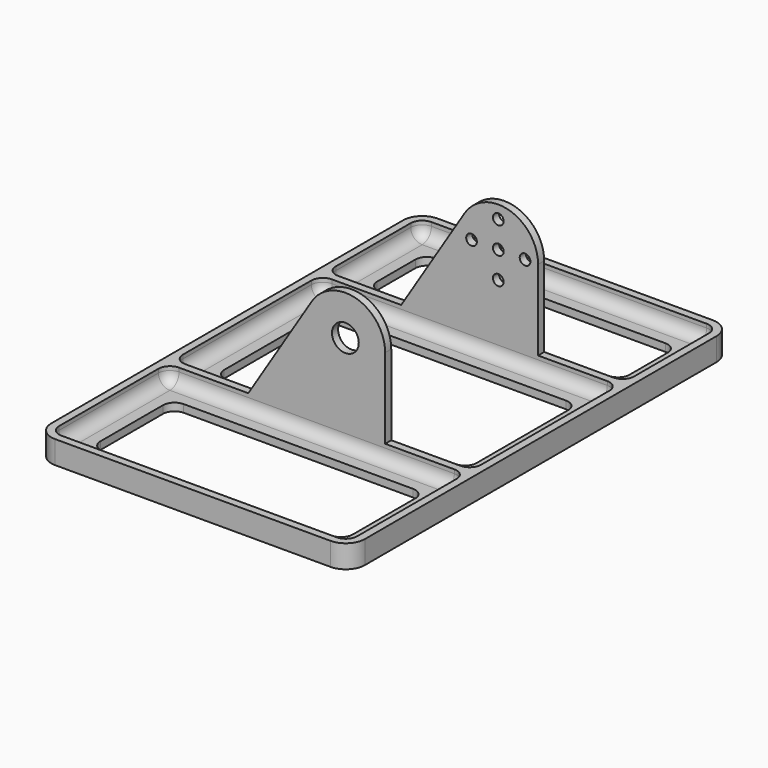
from build123d import *

# Parameters (mm, degrees)
PAD_DEPTH    = 2
SKETCH001_R  = 3.5
PAD001_DEPTH = 2
SKETCH003_R  = 1.4
PAD003_DEPTH = 2
PAD004_DEPTH = 4
FILLET_R     = 3
FILLET001_R  = 3
FILLET002_R  = 3
FILLET003_R  = 3
FILLET004_R  = 3
FILLET005_R  = 3
FILLET006_R  = 3
FILLET007_R  = 3


with BuildPart() as part:
    # Sketch → Pad (new body)
    with BuildSketch(Plane.XY):
        with BuildLine():
            Line((-36, 62.5), (36, 62.5))
            ThreePointArc((41, 57.5), (39.535534, 61.035534), (36, 62.5))
            Line((41, 57.5), (41, -57.5))
            ThreePointArc((36, -62.5), (39.535534, -61.035534), (41, -57.5))
            Line((36, -62.5), (-36, -62.5))
            ThreePointArc((-41, -57.5), (-39.535534, -61.035534), (-36, -62.5))
            Line((-41, -57.5), (-41, 57.5))
            ThreePointArc((-36, 62.5), (-39.535534, 61.035534), (-41, 57.5))
        make_face()
        with BuildLine():
            ThreePointArc((-30, 54.5), (-32.12132, 53.62132), (-33, 51.5))
            Line((-33, 39), (-33, 51.5))
            ThreePointArc((-33, 39), (-32.12132, 36.87868), (-30, 36))
            Line((30, 36), (-30, 36))
            ThreePointArc((30, 36), (32.12132, 36.87868), (33, 39))
            Line((33, 51.5), (33, 39))
            ThreePointArc((33, 51.5), (32.12132, 53.62132), (30, 54.5))
            Line((-30, 54.5), (30, 54.5))
        make_face(mode=Mode.SUBTRACT)
        with BuildLine():
            ThreePointArc((-30, -28), (-32.12132, -28.87868), (-33, -31))
            Line((-33, -51.5), (-33, -31))
            ThreePointArc((-33, -51.5), (-32.12132, -53.62132), (-30, -54.5))
            Line((30, -54.5), (-30, -54.5))
            ThreePointArc((30, -54.5), (32.12132, -53.62132), (33, -51.5))
            Line((33, -31), (33, -51.5))
            ThreePointArc((33, -31), (32.12132, -28.87868), (30, -28))
            Line((-30, -28), (30, -28))
        make_face(mode=Mode.SUBTRACT)
        with BuildLine():
            ThreePointArc((-30, 22), (-32.12132, 21.12132), (-33, 19))
            Line((-33, -11), (-33, 19))
            ThreePointArc((-33, -11), (-32.12132, -13.12132), (-30, -14))
            Line((30, -14), (-30, -14))
            ThreePointArc((30, -14), (32.12132, -13.12132), (33, -11))
            Line((33, 19), (33, -11))
            ThreePointArc((33, 19), (32.12132, 21.12132), (30, 22))
            Line((-30, 22), (30, 22))
        make_face(mode=Mode.SUBTRACT)
    extrude(amount=PAD_DEPTH)

    # Sketch001 → Pad001 (join)
    with BuildSketch(Plane(origin=(7.5, -20, 0), x_dir=(1, 0, 0), z_dir=(0, -1, 0))):
        with BuildLine():
            Line((10.4, 27), (10.4, 6))
            Line((33.5, 6), (10.4, 6))
            Line((33.5, 2), (33.5, 6))
            Line((-48.5, 2), (33.5, 2))
            Line((-48.5, 6), (-48.5, 2))
            Line((-25.4, 6), (-48.5, 6))
            Line((-25.4, 6), (-8.817564, 32.514577))
            ThreePointArc((10.4, 27), (2.868565, 36.996566), (-8.817564, 32.514577))
        make_face()
        with Locations((0, 27)):
            Circle(SKETCH001_R, mode=Mode.SUBTRACT)
    extrude(amount=PAD001_DEPTH)

    # Sketch003 → Pad003 (join)
    with BuildSketch(Plane(origin=(7.5, 30, 0), x_dir=(1, 0, 0), z_dir=(0, -1, 0))):
        with BuildLine():
            Line((33.5, 2), (-48.5, 2))
            Line((-48.5, 6), (-48.5, 2))
            Line((-25.4, 6), (-48.5, 6))
            Line((-8.817564, 32.514577), (-25.4, 6))
            ThreePointArc((10.4, 27), (2.868565, 36.996566), (-8.817564, 32.514577))
            Line((10.4, 27), (10.4, 6))
            Line((10.4, 6), (33.5, 6))
            Line((33.5, 6), (33.5, 2))
        make_face()
        with Locations((0, 27)):
            Circle(SKETCH003_R, mode=Mode.SUBTRACT)
        with Locations((-7, 27)):
            Circle(SKETCH003_R, mode=Mode.SUBTRACT)
        with Locations((0, 20)):
            Circle(SKETCH003_R, mode=Mode.SUBTRACT)
        with Locations((7, 27)):
            Circle(SKETCH003_R, mode=Mode.SUBTRACT)
        with Locations((0, 34)):
            Circle(SKETCH003_R, mode=Mode.SUBTRACT)
    extrude(amount=PAD003_DEPTH)

    # Sketch004 (on Face5 of Pad003) → Pad004 (join)
    with BuildSketch(Plane.XY.offset(2)):
        with BuildLine():
            Line((-36, 62.5), (36, 62.5))
            ThreePointArc((41, 57.5), (39.535534, 61.035534), (36, 62.5))
            Line((41, -57.5), (41, 57.5))
            ThreePointArc((36, -62.5), (39.535534, -61.035534), (41, -57.5))
            Line((-36, -62.5), (36, -62.5))
            ThreePointArc((-41, -57.5), (-39.535534, -61.035534), (-36, -62.5))
            Line((-41, 57.5), (-41, -57.5))
            ThreePointArc((-36, 62.5), (-39.535534, 61.035534), (-41, 57.5))
        make_face()
        with BuildLine():
            Line((-36, 60.5), (36, 60.5))
            ThreePointArc((39, 57.5), (38.12132, 59.62132), (36, 60.5))
            Line((39, 57.5), (39, -57.5))
            ThreePointArc((36, -60.5), (38.12132, -59.62132), (39, -57.5))
            Line((36, -60.5), (-36, -60.5))
            ThreePointArc((-39, -57.5), (-38.12132, -59.62132), (-36, -60.5))
            Line((-39, -57.5), (-39, 57.5))
            ThreePointArc((-36, 60.5), (-38.12132, 59.62132), (-39, 57.5))
        make_face(mode=Mode.SUBTRACT)
    extrude(amount=PAD004_DEPTH)

    # Fillet
    fillet_edges = [part.edges().sort_by_distance(p)[0] for p in [
        (-39, 4, 2),
    ]]
    fillet(fillet_edges, radius=FILLET_R)

    # Fillet001
    fillet001_edges = [part.edges().sort_by_distance(p)[0] for p in [
        (-39, -39.75, 2),
    ]]
    fillet(fillet001_edges, radius=FILLET001_R)

    # Fillet002
    fillet002_edges = [part.edges().sort_by_distance(p)[0] for p in [
        (0, -22, 2),
    ]]
    fillet(fillet002_edges, radius=FILLET002_R)

    # Fillet003
    fillet003_edges = [part.edges().sort_by_distance(p)[0] for p in [
        (1.5, 28, 2),
    ]]
    fillet(fillet003_edges, radius=FILLET003_R)

    # Fillet004
    fillet004_edges = [part.edges().sort_by_distance(p)[0] for p in [
        (1.5, -20, 2),
    ]]
    fillet(fillet004_edges, radius=FILLET004_R)

    # Fillet005
    fillet005_edges = [part.edges().sort_by_distance(p)[0] for p in [
        (39, 4, 2),
    ]]
    fillet(fillet005_edges, radius=FILLET005_R)

    # Fillet006
    fillet006_edges = [part.edges().sort_by_distance(p)[0] for p in [
        (0, 60.5, 2),
    ]]
    fillet(fillet006_edges, radius=FILLET006_R)

    # Fillet007
    fillet007_edges = [part.edges().sort_by_distance(p)[0] for p in [
        (0, 30, 2),
    ]]
    fillet(fillet007_edges, radius=FILLET007_R)


solid = part.part
